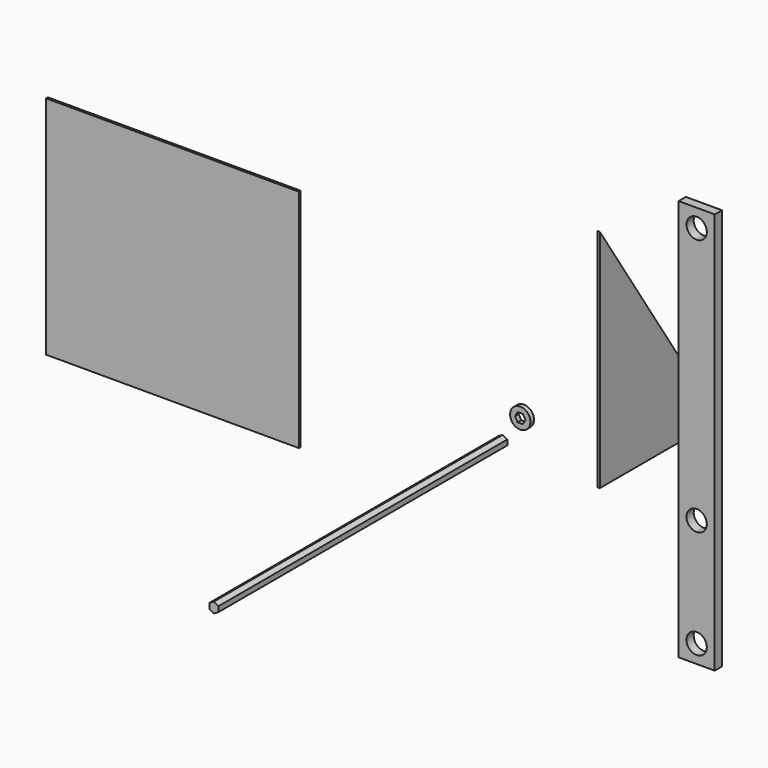
from build123d import *

# Parameters (mm, degrees)
F1_DEPTH = 508
F2_W     = 50.8
F2_H     = 565.15
F3_DEPTH = 12.7
F4_R     = 14.2875
F5_DEPTH = 6.35
F6_W     = 355.6
F6_H     = 317.5
F7_DEPTH = 3.175
F9_DEPTH = 3.175


with BuildPart() as f1:
    # F0 (on Front) → F1 (new body)
    with BuildSketch(Plane.XZ):
        Polygon((6.3754, -3.680839), (6.3754, 3.680839), (0, 7.361678), (-6.3754, 3.680839), (-6.3754, -3.680839), (0, -7.361678), align=None)
    extrude(amount=F1_DEPTH)


with BuildPart() as f3:
    # F2 (on Front) → F3 (new body)
    with BuildSketch(Plane.XZ):
        with Locations((282.97136, 103.283899)):
            Rectangle(F2_W, F2_H)
        with BuildLine():
            ThreePointArc((297.25886, -153.891101), (272.868572, -163.993889), (282.97136, -139.603601))
            ThreePointArc((282.97136, -139.603601), (293.074148, -143.788313), (297.25886, -153.891101))
        make_face(mode=Mode.SUBTRACT)
        with BuildLine():
            ThreePointArc((297.25886, -1.491101), (293.074148, -11.593889), (282.97136, -15.778601))
            ThreePointArc((282.97136, -15.778601), (268.68386, -1.491101), (282.97136, 12.796399))
            ThreePointArc((282.97136, 12.796399), (293.074148, 8.611687), (297.25886, -1.491101))
        make_face(mode=Mode.SUBTRACT)
        with BuildLine():
            ThreePointArc((297.25886, 360.458899), (293.074148, 350.356111), (282.97136, 346.171399))
            ThreePointArc((282.97136, 346.171399), (272.868572, 370.561687), (297.25886, 360.458899))
        make_face(mode=Mode.SUBTRACT)
    extrude(amount=F3_DEPTH)


with BuildPart() as f5:
    # F4 (on Front) → F5 (new body)
    with BuildSketch(Plane.XZ):
        with Locations((29.73141, 40.330604)):
            Circle(F4_R)
        Polygon((37.093087, 40.330604), (33.412249, 33.955204), (26.050571, 33.955204), (22.369732, 40.330604), (26.050571, 46.706004), (33.412249, 46.706004), align=None, mode=Mode.SUBTRACT)
    extrude(amount=F5_DEPTH)


with BuildPart() as f7:
    # F6 (on Front) → F7 (new body)
    with BuildSketch(Plane.XZ):
        with Locations((-462.097287, 58.583411)):
            Rectangle(F6_W, F6_H)
    extrude(amount=F7_DEPTH)


with BuildPart() as f9:
    # F8 (on Right) → F9 (new body)
    with BuildSketch(Plane.YZ):
        Polygon((376.340053, -125.446469), (166.790053, 192.053531), (166.790053, -125.446469), align=None)
    extrude(amount=F9_DEPTH)


solid = Compound([f1.part, f3.part, f5.part, f7.part, f9.part])
